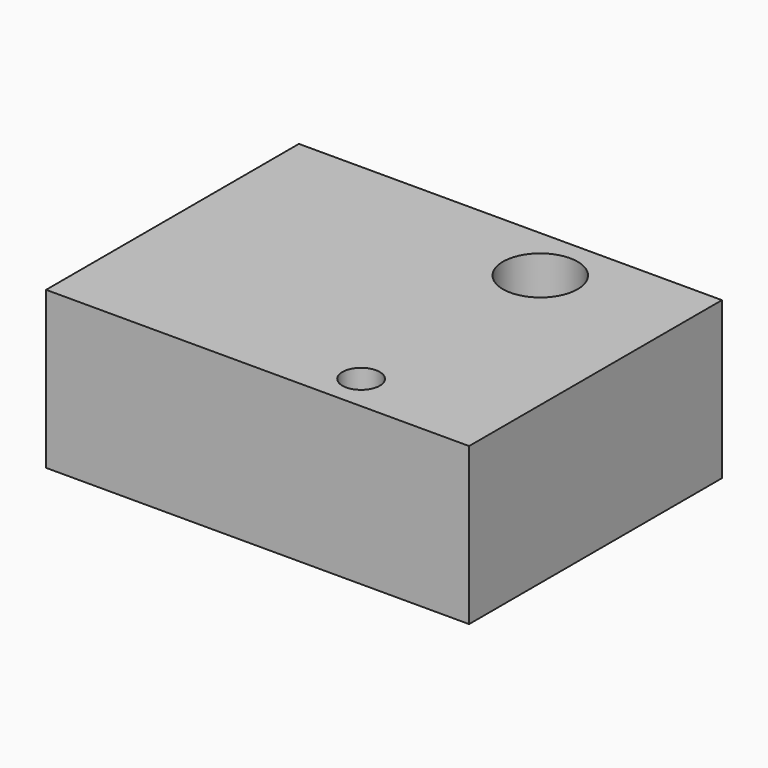
from build123d import *

# Parameters (mm, degrees)
F0_W     = 34
F0_H     = 25.4
F0_R     = 1.5
F0_R_2   = 3
F1_DEPTH = 12.6


with BuildPart() as f1:
    # F0 (on Top) → F1 (new body)
    with BuildSketch(Plane.XY):
        Rectangle(F0_W, F0_H)
        with Locations((6, -9.8)):
            Circle(F0_R, mode=Mode.SUBTRACT)
        with Locations((6, 8.2)):
            Circle(F0_R_2, mode=Mode.SUBTRACT)
    extrude(amount=F1_DEPTH)


solid = f1.part
